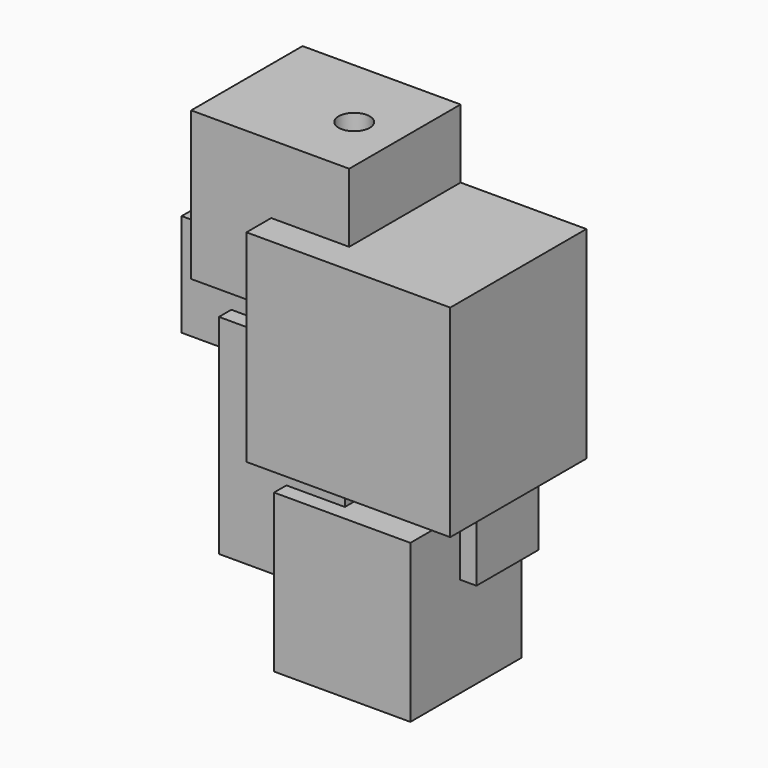
from build123d import *

# Parameters (mm, degrees)
F0_W      = 5.108088
F0_H      = 4.79851
F1_DEPTH  = 4.5
F2_W      = 6.587152
F2_H      = 6.533596
F6_DEPTH  = 5.5
F3_W      = 4.659206
F3_H      = 3.320352
F7_DEPTH  = 3.5
F4_W      = 4.070107
F4_H      = 6.747813
F9_DEPTH  = 4
F5_W      = 4.284326
F5_H      = 4.123662
F10_DEPTH = 2.5
F8_W      = 4.406571
F8_H      = 5.095096
F11_DEPTH = 4.5
F12_R     = 0.503624
F13_DEPTH = 3.5


with BuildPart() as f1:
    # F0 (on Front) → F1 (new body)
    with BuildSketch(Plane.XZ):
        with Locations((-50.157245, 31.105429)):
            Rectangle(F0_W, F0_H)
    extrude(amount=F1_DEPTH)

    # F2 (on Front) → F6 (join)
    with BuildSketch(Plane.XZ):
        with Locations((-46.830697, 28.015254)):
            Rectangle(F2_W, F2_H)
    extrude(amount=F6_DEPTH)

    # F3 (on Front) → F7 (join)
    with BuildSketch(Plane.XZ):
        with Locations((-51.489901, 28.068807)):
            Rectangle(F3_W, F3_H)
    extrude(amount=F7_DEPTH)

    # F4 (on Front) → F9 (join)
    with BuildSketch(Plane.XZ):
        with Locations((-50.177825, 24.212915)):
            Rectangle(F4_W, F4_H)
    extrude(amount=F9_DEPTH)

    # F5 (on Front) → F10 (join)
    with BuildSketch(Plane.XZ):
        with Locations((-47.23235, 23.704151)):
            Rectangle(F5_W, F5_H)
    extrude(amount=F10_DEPTH)

    # F8 (on Front) → F11 (join)
    with BuildSketch(Plane.XZ):
        with Locations((-47.829266, 20.953265)):
            Rectangle(F8_W, F8_H)
    extrude(amount=F11_DEPTH)

    # F12 (on face) → F13 (cut)
    with BuildSketch(Plane.XY.offset(33.504684)):
        with Locations((-49.100351, -2.427287)):
            Circle(F12_R)
    extrude(amount=-F13_DEPTH, mode=Mode.SUBTRACT)


solid = f1.part
